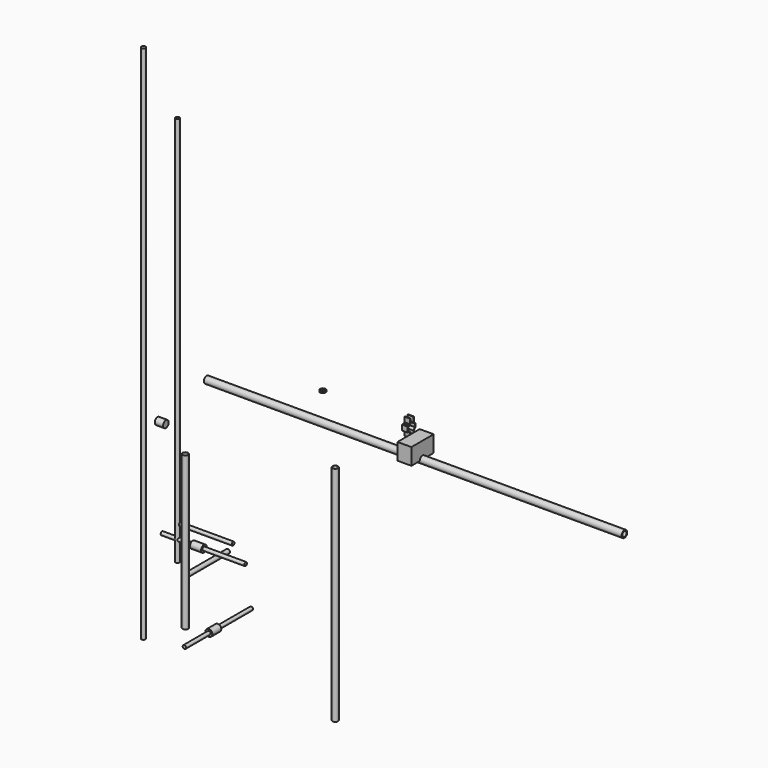
from build123d import *

# Parameters (mm, degrees)
F0_R           = 25
F0_R_2         = 19
F1_DEPTH       = 3000
F3_W           = 200
F3_H           = 118.5581170488
F4_DEPTH       = 50
F4_DEPTH_BACK  = 50
F5_R           = 15
F6_DEPTH       = 1966
F6_DEPTH_BACK  = 1772
F9_START       = -20
F8_R           = 25
F9_DEPTH       = 80
F10_R          = 12.5
F11_DEPTH      = 300
F11_DEPTH_BACK = 300
F14_START      = -20
F13_R          = 25
F14_DEPTH      = 80
F15_R          = 12.5
F16_DEPTH      = 300
F16_DEPTH_BACK = 300
F19_DEPTH      = 40
F20_R          = 20
F20_R_2        = 19.25
F21_DEPTH      = 1600
F22_R          = 15
F23_DEPTH      = 1586
F23_DEPTH_BACK = 1219
F25_R          = 12.5
F26_DEPTH      = 190
F26_DEPTH_BACK = 190
F28_R          = 15
F29_DEPTH      = 190
F29_DEPTH_BACK = 190
F30_R          = 25
F31_DEPTH      = 30
F31_DEPTH_BACK = 30
F32_R          = 20
F32_R_2        = 19.25
F33_DEPTH      = 1100
F34_R          = 20
F34_R_2        = 19.25
F35_DEPTH      = 10


with BuildPart() as f1:
    # F0 (on Right) → F1 (new body)
    with BuildSketch(Plane.YZ):
        Circle(F0_R)
        Circle(F0_R_2, mode=Mode.SUBTRACT)
    extrude(amount=F1_DEPTH)

    # F3 (on offset) → F4 (join, two sides)
    with BuildSketch(Plane.YZ.offset(1500)) as f4_sk:
        with Locations((0, 59.2790585244)):
            Rectangle(F3_W, F3_H)
    extrude(amount=F4_DEPTH)
    extrude(f4_sk.sketch, amount=-F4_DEPTH_BACK)


with BuildPart() as f6:
    # F5 (on Top) → F6 (new body, two sides)
    with BuildSketch(Plane.XY) as f6_sk:
        with Locations((-439.0692710876, -18.7022052705)):
            Circle(F5_R)
    extrude(amount=F6_DEPTH)
    extrude(f6_sk.sketch, amount=-F6_DEPTH_BACK)


with BuildPart() as f9:
    # F8 (on Front) → F9 (new body)
    with BuildSketch(Plane.XZ.offset(F9_START)):
        with Locations((0, -1609)):
            Circle(F8_R)
    extrude(amount=-F9_DEPTH)


with BuildPart() as f11:
    # F10 (on face) → F11 (new body, two sides)
    with BuildSketch(Plane(origin=(0, 100, 0), x_dir=(-1, 0, 0), z_dir=(0, 1, 0))) as f11_sk:
        with Locations((0, -1609)):
            Circle(F10_R)
    extrude(amount=F11_DEPTH)
    extrude(f11_sk.sketch, amount=-F11_DEPTH_BACK)


with BuildPart() as f14:
    # F13 (on Right) → F14 (new body)
    with BuildSketch(Plane.YZ.offset(F14_START)):
        with Locations((0, -1075)):
            Circle(F13_R)
    extrude(amount=-F14_DEPTH)


with BuildPart() as f16:
    # F15 (on face) → F16 (new body, two sides)
    with BuildSketch(Plane.YZ.offset(-20)) as f16_sk:
        with Locations((0, -1075)):
            Circle(F15_R)
    extrude(amount=F16_DEPTH)
    extrude(f16_sk.sketch, amount=-F16_DEPTH_BACK)


with BuildPart() as f19:
    # F18 (on offset) → F19 (new body)
    with BuildSketch(Plane.YZ.offset(1300)):
        Polygon((179.47330858, 6.6190533715), (184.47330858, 6.6190533715), (184.47330858, 41.6190533715), (199.47330858, 56.6190533715), (199.47330858, 78.6190533715), (184.47330858, 93.6190533715), (184.47330858, 128.6190533715), (179.47330858, 128.6190533715), (179.47330858, 93.6887386519), (194.47330858, 78.6887386519), (194.47330858, 56.6190533715), (179.47330858, 41.6190533715), align=None)
    extrude(amount=F19_DEPTH)


with BuildPart() as f19b:
    # F18 (on offset) → F19, piece 2 (new body)
    with BuildSketch(Plane.YZ.offset(1300)):
        Polygon((142.5195689979, 81.6190533715), (154.387590967, 93.6190533715), (154.387590967, 128.6190533715), (149.387590967, 128.6190533715), (149.387590967, 93.6190533715), (142.4645781517, 86.6190533715), (128.387590967, 86.6190533715), (128.387590967, 48.6190533715), (142.4645781517, 48.6190533715), (149.387590967, 41.6190533715), (149.387590967, 6.6190533715), (154.387590967, 6.6190533715), (154.387590967, 41.6190533715), (142.5195689979, 53.6190533715), (133.387590967, 53.6190533715), (133.387590967, 81.6190533715), align=None)
    extrude(amount=F19_DEPTH)


with BuildPart() as f21:
    # F20 (on Top) → F21 (new body)
    with BuildSketch(Plane.XY):
        with Locations((1226.8044948578, -379.5030117035)):
            Circle(F20_R)
        with Locations((1226.8044948578, -379.5030117035)):
            Circle(F20_R_2, mode=Mode.SUBTRACT)
    extrude(amount=-F21_DEPTH)


with BuildPart() as f23:
    # F22 (on Top) → F23 (new body, two sides)
    with BuildSketch(Plane.XY) as f23_sk:
        with Locations((-210.0320160389, 0)):
            Circle(F22_R)
    extrude(amount=F23_DEPTH)
    extrude(f23_sk.sketch, amount=-F23_DEPTH_BACK)


with BuildPart() as f26:
    # F25 (on Right) → F26 (new body, two sides)
    with BuildSketch(Plane.YZ) as f26_sk:
        with Locations((0, -975)):
            Circle(F25_R)
    extrude(amount=F26_DEPTH)
    extrude(f26_sk.sketch, amount=-F26_DEPTH_BACK)


with BuildPart() as f29:
    # F28 (on Front) → F29 (new body, two sides)
    with BuildSketch(Plane.XZ) as f29_sk:
        with Locations((0, -1162)):
            Circle(F28_R)
    extrude(amount=F29_DEPTH)
    extrude(f29_sk.sketch, amount=-F29_DEPTH_BACK)


with BuildPart() as f31:
    # F30 (on Right) → F31 (new body, two sides)
    with BuildSketch(Plane.YZ) as f31_sk:
        with Locations((-403.5350382328, -106.7529991269)):
            Circle(F30_R)
    extrude(amount=F31_DEPTH)
    extrude(f31_sk.sketch, amount=-F31_DEPTH_BACK)


with BuildPart() as f33:
    # F32 (on Top) → F33 (new body)
    with BuildSketch(Plane.XY):
        with Locations((469.3075716496, -778.6795496941)):
            Circle(F32_R)
        with Locations((469.3075716496, -778.6795496941)):
            Circle(F32_R_2, mode=Mode.SUBTRACT)
    extrude(amount=-F33_DEPTH)


with BuildPart() as f35:
    # F34 (on Top) → F35 (new body)
    with BuildSketch(Plane.XY):
        with Locations((586.2077474594, 310.2257847786)):
            Circle(F34_R)
        with Locations((586.2077474594, 310.2257847786)):
            Circle(F34_R_2, mode=Mode.SUBTRACT)
    extrude(amount=-F35_DEPTH)


solid = Compound([f1.part, f6.part, f9.part, f11.part, f14.part, f16.part, f19.part, f19b.part, f21.part, f23.part, f26.part, f29.part, f31.part, f33.part, f35.part])
